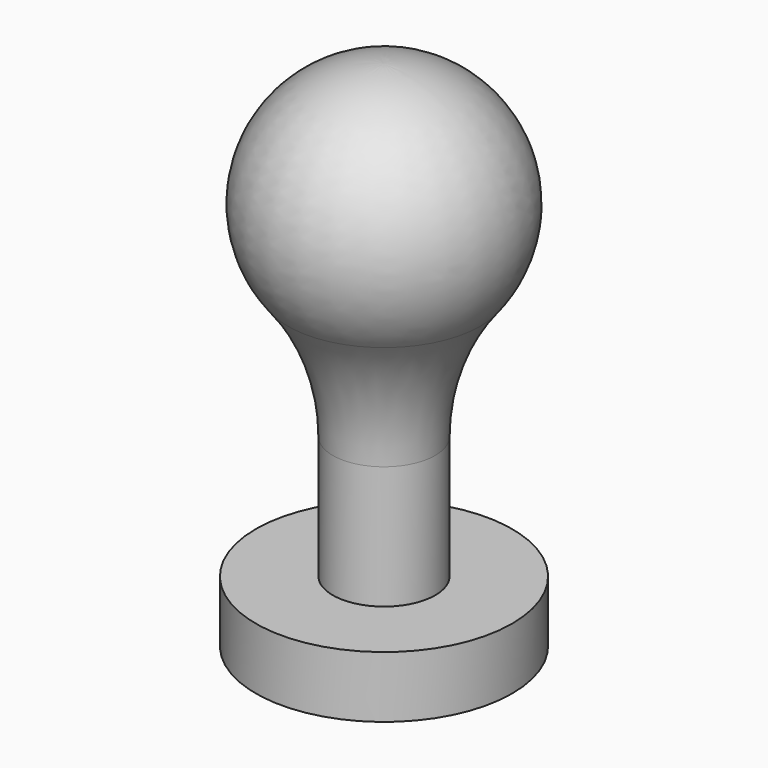
from build123d import *


with BuildPart() as f1:
    # F0 (on Front) → F1 (revolve)
    with BuildSketch(Plane.XZ):
        with BuildLine():
            Line((5, 6), (5, 18))
            ThreePointArc((5, 18), (6.126843, 24.630605), (9.380846, 30.516704))
            ThreePointArc((9.380846, 30.516704), (10.81202, 43.205787), (0, 50))
            Line((0, 50), (0, 0))
            Line((0, 0), (12.5, 0))
            Line((12.5, 0), (12.5, 6))
            Line((12.5, 6), (5, 6))
        make_face()
    revolve(axis=Axis((0, 0, 25), (0, 0, 1)))


solid = f1.part
